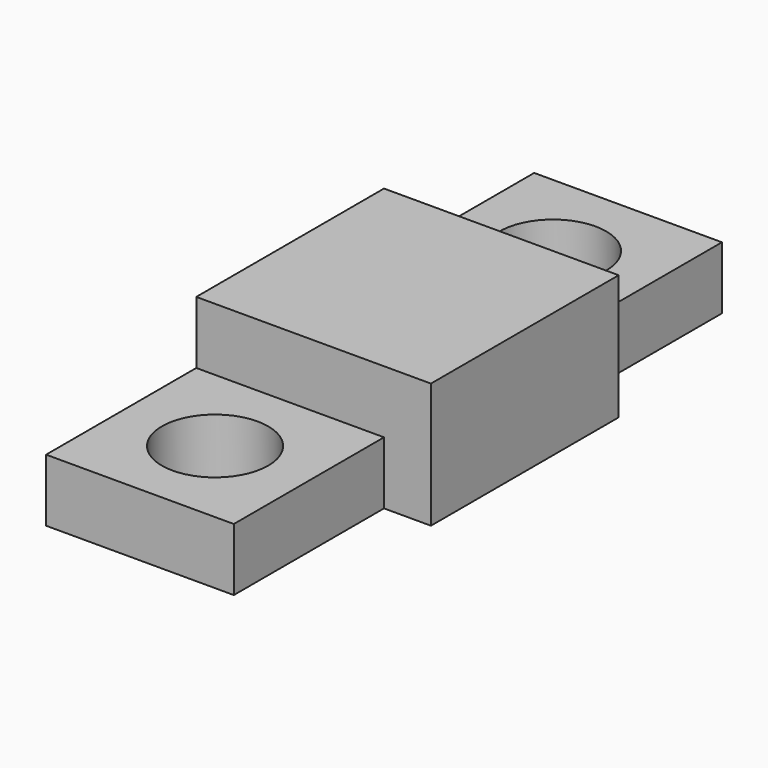
from build123d import *

# Parameters (mm, degrees)
SKETCH_W     = 7.5
SKETCH_H     = 7.5
SKETCH_W_2   = 6.05
SKETCH_H_2   = 6.05
PAD_DEPTH    = 3.05
SKETCH001_W  = 7.5
SKETCH001_H  = 7.5
PAD001_DEPTH = 0.95
SKETCH002_W  = 6
SKETCH002_H  = 2
PAD002_DEPTH = 6
SKETCH003_W  = 6
SKETCH003_H  = 2
PAD003_DEPTH = 6
SKETCH004_R  = 1.7
HOLE_DEPTH   = 25


with BuildPart() as part:
    # Sketch → Pad (new body)
    with BuildSketch(Plane.XY):
        Rectangle(SKETCH_W, SKETCH_H)
        Rectangle(SKETCH_W_2, SKETCH_H_2, mode=Mode.SUBTRACT)
    extrude(amount=PAD_DEPTH)

    # Sketch001 (on Face10 of Pad) → Pad001 (join)
    with BuildSketch(Plane.XY.offset(3.05)):
        Rectangle(SKETCH001_W, SKETCH001_H)
    extrude(amount=PAD001_DEPTH)

    # Sketch002 (on Face10 of Pad001) → Pad002 (join)
    with BuildSketch(Plane.XZ.offset(3.75)):
        with Locations((-0.75, 1)):
            Rectangle(SKETCH002_W, SKETCH002_H)
    extrude(amount=PAD002_DEPTH)

    # Sketch003 (on Face3 of Pad002) → Pad003 (join)
    with BuildSketch(Plane(origin=(0, 3.75, 0), x_dir=(-1, 0, 0), z_dir=(0, 1, 0))):
        with Locations((0.75, 1)):
            Rectangle(SKETCH003_W, SKETCH003_H)
    extrude(amount=PAD003_DEPTH)

    # Sketch004 (on Face12 of Pad003) → Hole (cut)
    with BuildSketch(Plane(origin=(0, 0, 0), x_dir=(1, 0, 0), z_dir=(0, 0, -1))):
        with Locations((-0.75, 6.75)):
            Circle(SKETCH004_R)
        with Locations((-0.75, -6.75)):
            Circle(SKETCH004_R)
    extrude(amount=-HOLE_DEPTH, mode=Mode.SUBTRACT)


solid = part.part
